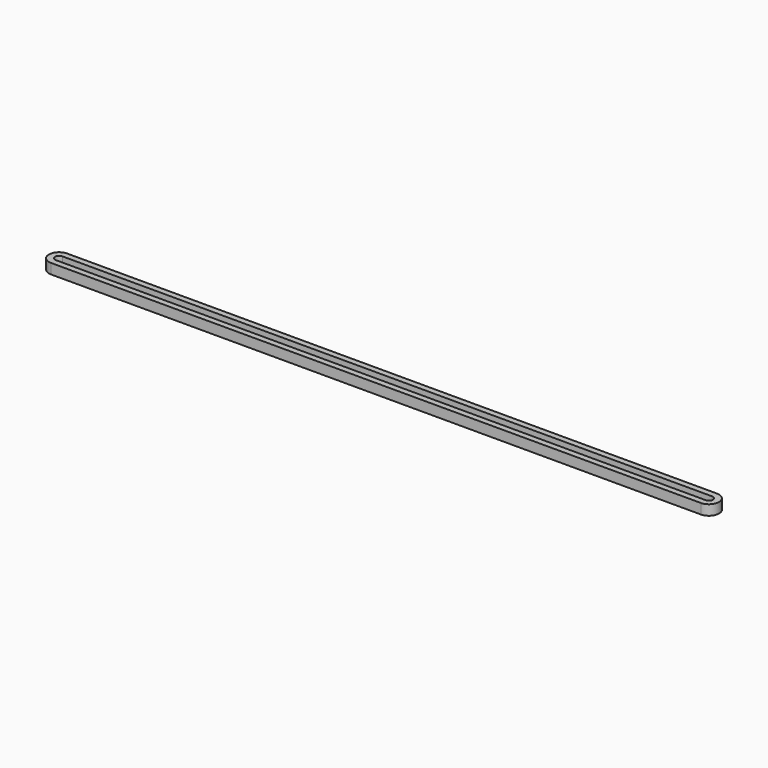
from build123d import *

# Parameters (mm, degrees)
F1_DEPTH = 6.35


with BuildPart() as f1:
    # F0 (on Top) → F1 (new body)
    with BuildSketch(Plane.XY):
        with BuildLine():
            ThreePointArc((-203.2, -2.552668), (-205.74, 0), (-203.2, 2.552668))
            Line((-203.2, 2.552668), (-203.2, 6.35))
            ThreePointArc((-203.2, 6.35), (-209.55, 0), (-203.2, -6.35))
            Line((-203.2, -6.35), (-203.2, -2.552668))
        make_face()
        with BuildLine():
            ThreePointArc((-203.2, 2.552668), (-203.19365, 2.552692), (-203.1873, 2.5527))
            Line((-203.1873, 2.5527), (203.1873, 2.5527))
            ThreePointArc((203.1873, 2.5527), (203.19365, 2.552692), (203.2, 2.552668))
            Line((203.2, 2.552668), (203.2, 6.35))
            Line((203.2, 6.35), (-203.2, 6.35))
            Line((-203.2, 6.35), (-203.2, 2.552668))
        make_face()
        with BuildLine():
            Line((203.1873, -2.5527), (-203.1873, -2.5527))
            ThreePointArc((-203.1873, -2.5527), (-203.19365, -2.552692), (-203.2, -2.552668))
            Line((-203.2, -2.552668), (-203.2, -6.35))
            Line((-203.2, -6.35), (203.2, -6.35))
            Line((203.2, -6.35), (203.2, -2.552668))
            ThreePointArc((203.2, -2.552668), (203.19365, -2.552692), (203.1873, -2.5527))
        make_face()
        with BuildLine():
            Line((203.2, 6.35), (203.2, 2.552668))
            ThreePointArc((203.2, 2.552668), (205.74, 0), (203.2, -2.552668))
            Line((203.2, -2.552668), (203.2, -6.35))
            ThreePointArc((203.2, -6.35), (209.55, 0), (203.2, 6.35))
        make_face()
    extrude(amount=F1_DEPTH)


solid = f1.part
